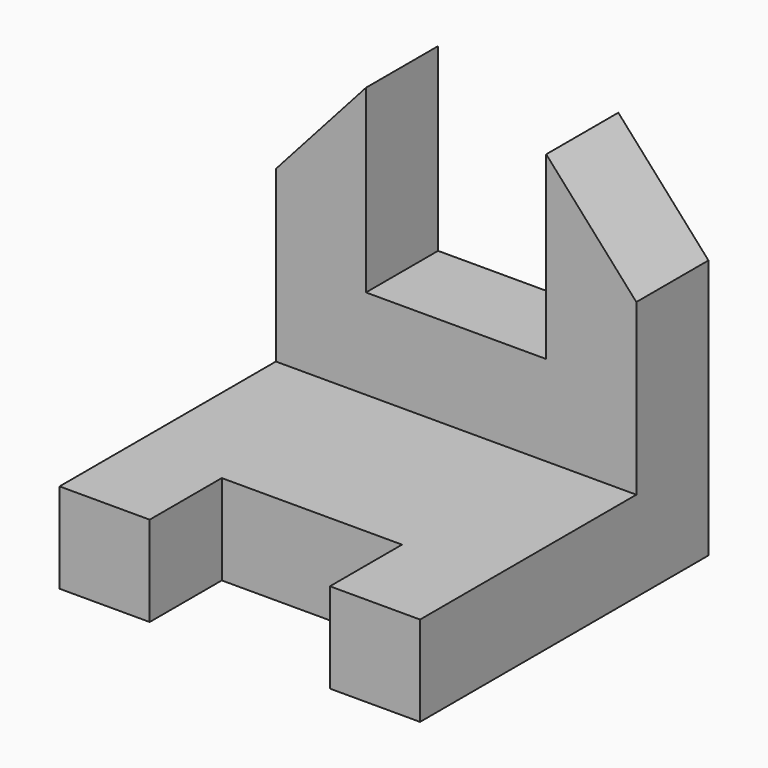
from build123d import *

# Parameters (mm, degrees)
F1_DEPTH  = 25.4
F2_W      = 76.2
F2_H      = 25.4
F3_DEPTH  = 101.6
F4_W      = 50.8
F4_H      = 25.4
F5_DEPTH  = 25.4
F7_DEPTH  = 25.4
F9_DEPTH  = 25.4
F10_DEPTH = 25.4
F11_DEPTH = 25.4
F12_DEPTH = 25.4


with BuildPart() as f1:
    # F0 (on Front) → F1 (new body)
    with BuildSketch(Plane.XZ):
        Polygon((-101.6, 0), (0, 0), (0, 101.6), (-25.4, 101.6), (-25.4, 50.8), (-76.2, 50.8), (-76.2, 101.6), (-101.6, 101.6), align=None)
    extrude(amount=F1_DEPTH)

    # F2 (on Right) → F3 (join)
    with BuildSketch(Plane.YZ):
        with Locations((-38.1, 12.7)):
            Rectangle(F2_W, F2_H)
    extrude(amount=-F3_DEPTH)

    # F4 (on face) → F5 (cut)
    with BuildSketch(Plane.XZ.offset(76.2)):
        with Locations((-50.8, 12.7)):
            Rectangle(F4_W, F4_H)
    extrude(amount=-F5_DEPTH, mode=Mode.SUBTRACT)

    # F6 (on face) → F7 (cut)
    with BuildSketch(Plane.XZ.offset(25.4)):
        Polygon((0, 101.6), (-25.4, 101.6), (0, 73.2019366858), align=None)
    extrude(amount=-F7_DEPTH, mode=Mode.SUBTRACT)

    # F8 (on face) → F9 (cut)
    with BuildSketch(Plane.XZ.offset(25.4)):
        Polygon((-101.6, 73.2019366858), (-76.2, 101.6), (-101.6, 101.6), align=None)
    extrude(amount=-F9_DEPTH, mode=Mode.SUBTRACT)

    # F10 (add): a face of the model
    f10_faces = [f1.faces().sort_by_distance(p)[0] for p in [
        (-12.7, -76.2, 12.7),
    ]]
    extrude(f10_faces, amount=F10_DEPTH)

    # F11 (add): a face of the model
    f11_faces = [f1.faces().sort_by_distance(p)[0] for p in [
        (-88.9, -76.2, 12.7),
    ]]
    extrude(f11_faces, amount=F11_DEPTH)

    # F12 (add): a face of the model
    f12_faces = [f1.faces().sort_by_distance(p)[0] for p in [
        (-50.8, -50.8, 12.7),
    ]]
    extrude(f12_faces, amount=F12_DEPTH)


solid = f1.part
